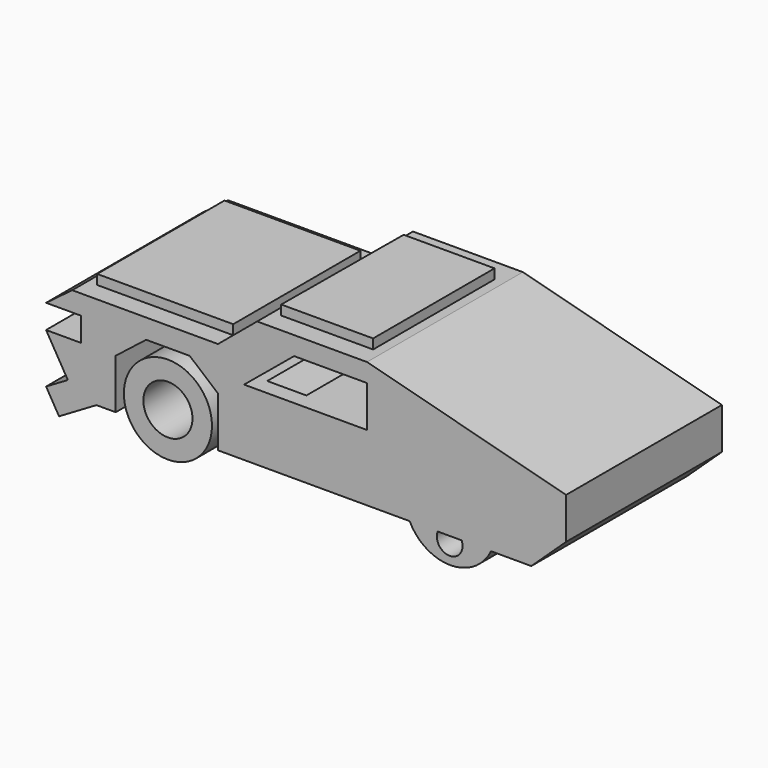
from build123d import *

# Parameters (mm, degrees)
F0_R      = 5.7449607944
F1_DEPTH  = 25.4
F0_R_2    = 5.8873482928
F4_DEPTH  = 25.4
F5_DEPTH  = 25.4
F6_R      = 3.20054545
F7_DEPTH  = 25.4
F9_DEPTH  = 25.4
F11_DEPTH = 25.4
F12_W     = 3.9208573289
F12_H     = 21.0416209884
F13_DEPTH = 25.4
F15_DEPTH = 27.94
F16_DEPTH = 25.4
F17_DEPTH = 1.27
F18_W     = 17.7321750671
F18_H     = 20.7401141524
F19_DEPTH = 2.54
F20_DEPTH = 1.27


with BuildPart() as f1:
    # F0 (on Front) → F1 (new body)
    with BuildSketch(Plane.XZ):
        with Locations((-25.9606912732, 5.3907446563)):
            Circle(F0_R)
    extrude(amount=F1_DEPTH)

    # F3 (on Front) → F5 (cut)
    with BuildSketch(Plane.XZ):
        Polygon((-13.9075210318, 17.5154227763), (-18.8151281327, 12.0304487646), (0, 11.7417657748), (7.4550076388, 14.0512287617), (0, 17.5154227763), align=None)
    extrude(amount=-F5_DEPTH, mode=Mode.SUBTRACT)

    # F6 (on face) → F7 (cut)
    with BuildSketch(Plane.XZ.offset(25.4)):
        with Locations((-25.9606912732, 5.3907446563)):
            Circle(F6_R)
    extrude(amount=-F7_DEPTH, mode=Mode.SUBTRACT)


with BuildPart() as f1b:
    # F0 (on Front) → F1, piece 2 (new body)
    with BuildSketch(Plane.XZ):
        with Locations((10.8671383932, 5.3907446563)):
            Circle(F0_R_2)
    extrude(amount=F1_DEPTH)

    # F2 (on Front) → F4 (join)
    with BuildSketch(Plane.XZ):
        Polygon((-19.4350536913, 9.36287269), (-19.4350536913, 2.8372341767), (21.4211158454, 2.8372341767), (25.9606931359, 7.0930854417), (25.9606931359, 12.4838305637), (0, 19.2931909114), (-14.328032732, 19.2931909114), (-19.4350536913, 15.0373410434), (-38.4445227683, 15.0373410434), (-41.8492034078, 12.4838305637), (-37.30962798, 12.4838305637), (-37.30962798, 9.36287269), (-41.8492034078, 9.36287269), (-39.0119701624, 4.5395744964), (-41.8492034078, 2.8706143439), (-40.1606073217, 0), (-35.2805612409, 2.8706143439), (-32.7700525522, 2.8706143439), (-32.7700525522, 9.36287269), (-28.7979245186, 12.4838305637), (-23.1234580278, 12.4838305637), align=None)
    extrude(amount=F4_DEPTH)

    # F8 (on face) → F9 (cut)
    with BuildSketch(Plane.XZ.offset(25.4)):
        with BuildLine():
            Line((12.3419677839, 2.8372341767), (9.2210108414, 2.8372341767))
            ThreePointArc((9.2210108414, 2.8372341767), (10.7814893126, 0.5517586494), (12.3419677839, 2.8372341767))
        make_face()
    extrude(amount=-F9_DEPTH, mode=Mode.SUBTRACT)

    # F10 (on face) → F11 (cut)
    with BuildSketch(Plane.XZ.offset(25.4)):
        Polygon((-9.5047345385, 16.8815422803), (-16.0303730518, 11.490797624), (0, 11.490797624), (0, 16.8815422803), align=None)
    extrude(amount=-F11_DEPTH, mode=Mode.SUBTRACT)

    # F12 (on face) → F13 (cut)
    with BuildSketch(Plane(origin=(-15.3605972177, 0, 18.432720695), x_dir=(0.7682213485, 0, 0.640184317), z_dir=(-0.640184317, 0, 0.7682213485))):
        with Locations((-1.9604286645, -12.7899905201)):
            Rectangle(F12_W, F12_H)
    extrude(amount=-F13_DEPTH, mode=Mode.SUBTRACT)

    # F14 (on face) → F15 (join)
    with BuildSketch(Plane.XY.offset(19.2931909114)):
        Polygon((-1.2421964202, -3.0599406455), (-13.0937732756, -3.0599406455), (-13.2198538631, -22.8545945138), (-1.2421964202, -22.8545945138), align=None)
    extrude(amount=F15_DEPTH)

    # F16 (cut): a face of the model
    f16_faces = [f1b.faces().sort_by_distance(p)[0] for p in [
        (-7.1995605859, -12.9747231803, 47.2331909114),
    ]]
    extrude(f16_faces, amount=-F16_DEPTH, mode=Mode.SUBTRACT)

    # F17 (cut): a face of the model
    f17_faces = [f1b.faces().sort_by_distance(p)[0] for p in [
        (-7.1995605859, -12.9747231803, 21.8331909114),
    ]]
    extrude(f17_faces, amount=-F17_DEPTH, mode=Mode.SUBTRACT)

    # F18 (on face) → F19 (join)
    with BuildSketch(Plane.XY.offset(15.0373410434)):
        with Locations((-28.3011412248, -12.5466659665)):
            Rectangle(F18_W, F18_H)
    extrude(amount=F19_DEPTH)

    # F20 (cut): a face of the model
    f20_faces = [f1b.faces().sort_by_distance(p)[0] for p in [
        (-28.3011412248, -12.5466659665, 17.5773410434),
    ]]
    extrude(f20_faces, amount=-F20_DEPTH, mode=Mode.SUBTRACT)


solid = Compound([f1.part, f1b.part])
